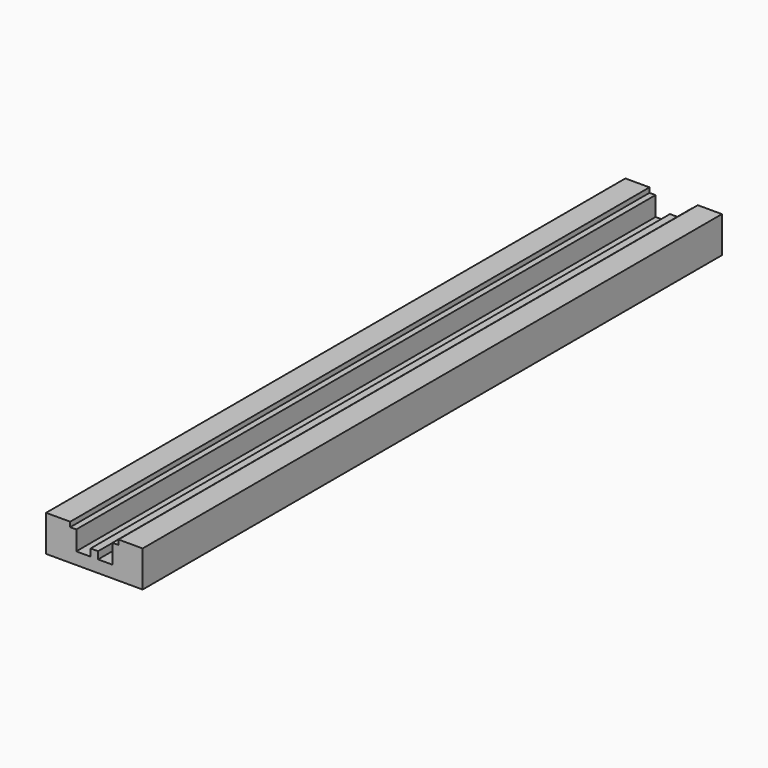
from build123d import *

# Parameters (mm, degrees)
F1_DEPTH = 381


with BuildPart() as f1:
    # F0 (on Front) → F1 (new body)
    with BuildSketch(Plane.XZ):
        Polygon((25.4, -9.525), (25.4, 9.525), (12.7, 9.525), (12.7, 6.985), (9.525, 6.985), (9.525, -3.175), (1.9685, -3.175), (1.9685, 0.635), (-1.9685, 0.635), (-1.9685, -3.175), (-9.525, -3.175), (-9.525, 6.985), (-12.7, 6.985), (-12.7, 9.525), (-25.4, 9.525), (-25.4, -9.525), align=None)
    extrude(amount=-F1_DEPTH)


solid = f1.part
